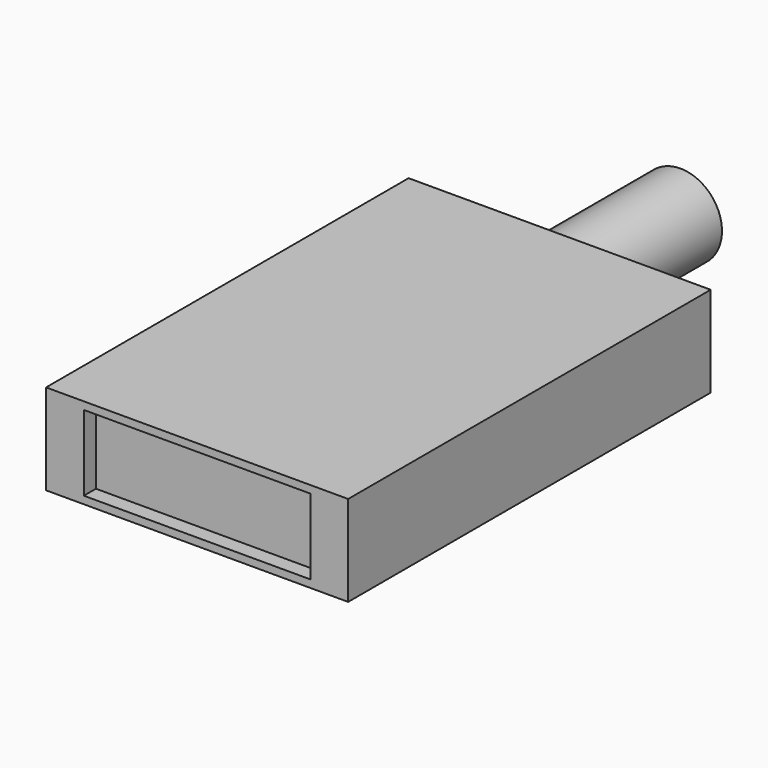
from build123d import *

# Parameters (mm, degrees)
F0_W     = 40
F0_H     = 60
F1_DEPTH = 12
F2_W     = 30
F2_H     = 10
F3_DEPTH = 2
F4_R     = 5.5
F5_DEPTH = 20


with BuildPart() as f1:
    # F0 (on Top) → F1 (new body)
    with BuildSketch(Plane.XY):
        Rectangle(F0_W, F0_H)
    extrude(amount=F1_DEPTH)

    # F2 (on face) → F3 (cut)
    with BuildSketch(Plane.XZ.offset(30)):
        with Locations((0, 6)):
            Rectangle(F2_W, F2_H)
    extrude(amount=-F3_DEPTH, mode=Mode.SUBTRACT)

    # F4 (on face) → F5 (join)
    with BuildSketch(Plane(origin=(0, 30, 0), x_dir=(-1, 0, 0), z_dir=(0, 1, 0))):
        with Locations((0, 6)):
            Circle(F4_R)
    extrude(amount=F5_DEPTH)


solid = f1.part
